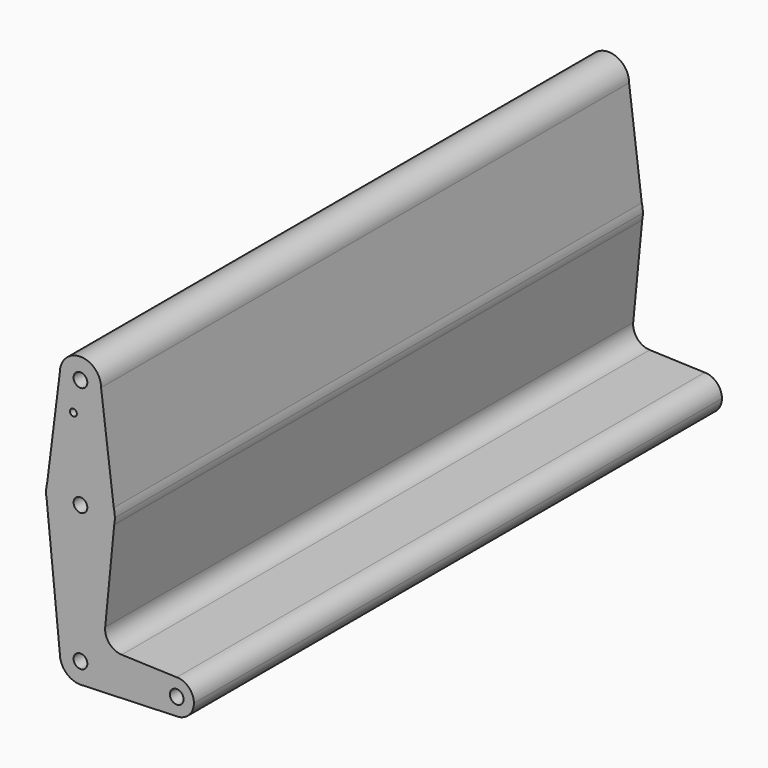
from build123d import *

# Parameters (mm, degrees)
F0_R     = 3.175
F0_R_2   = 1.5875
F1_DEPTH = 304.8
F2_DEPTH = 304.8


with BuildPart() as f1:
    # F0 (on Front) → F1 (new body)
    with BuildSketch(Plane.XZ):
        with BuildLine():
            ThreePointArc((-9.525, 114.3), (0, 104.775), (9.525, 114.3))
            ThreePointArc((9.525, 114.3), (0, 123.825), (-9.525, 114.3))
        make_face()
        with Locations((0, 114.3)):
            Circle(F0_R, mode=Mode.SUBTRACT)
        with BuildLine():
            Line((15.3865384615, 67.4076923077), (9.525, 114.3))
            ThreePointArc((9.525, 114.3), (0, 104.775), (-9.525, 114.3))
            Line((-9.525, 114.3), (-15.3865384615, 67.4076923077))
            ThreePointArc((-15.3865384615, 67.4076923077), (0, 79.375), (15.3865384615, 67.4076923077))
        make_face()
        with Locations((-3.2641780563, 100.0252)):
            Circle(F0_R_2, mode=Mode.SUBTRACT)
        with BuildLine():
            Line((15.875, 63.5), (15.3865384615, 67.4076923077))
            ThreePointArc((15.3865384615, 67.4076923077), (0, 79.375), (-15.3865384615, 67.4076923077))
            Line((-15.3865384615, 67.4076923077), (-15.875, 63.5))
            Line((-15.875, 63.5), (-15.5606435644, 60.3564356436))
            ThreePointArc((-15.5606435644, 60.3564356436), (0.0485627416, 47.6250742786), (15.5795850131, 60.4516962387))
            Line((15.5795850131, 60.4516962387), (15.875, 63.5))
        make_face()
        with Locations((0, 63.5)):
            Circle(F0_R, mode=Mode.SUBTRACT)
        with BuildLine():
            ThreePointArc((15.875, 63.5), (15.7524112928, 65.4690514116), (15.3865384615, 67.4076923077))
            Line((15.3865384615, 67.4076923077), (15.875, 63.5))
        make_face()
        with BuildLine():
            Line((-15.875, 63.5), (-15.3865384615, 67.4076923077))
            ThreePointArc((-15.3865384615, 67.4076923077), (-15.7524112928, 65.4690514116), (-15.875, 63.5))
        make_face()
        with BuildLine():
            ThreePointArc((15.5795850131, 60.4516962387), (15.800973658, 61.9687075854), (15.875, 63.5))
            Line((15.875, 63.5), (15.5795850131, 60.4516962387))
        make_face()
        with BuildLine():
            Line((-15.5606435644, 60.3564356436), (-15.875, 63.5))
            ThreePointArc((-15.875, 63.5), (-15.7962153946, 61.9203784605), (-15.5606435644, 60.3564356436))
        make_face()
        with BuildLine():
            Line((11.4225647963, 17.556579463), (15.5795850131, 60.4516962387))
            ThreePointArc((15.5795850131, 60.4516962387), (0.0485627416, 47.6250742786), (-15.5606435644, 60.3564356436))
            Line((-15.5606435644, 60.3564356436), (-9.525, 0))
            ThreePointArc((-9.525, 0), (0, 9.525), (9.525, 0))
            ThreePointArc((9.525, 0), (6.9712901065, -6.4905114784), (0.6794904459, -9.5007324841))
            Line((0.6794904459, -9.5007324841), (44.45, -7.9375))
            ThreePointArc((44.45, -7.9375), (36.5125, 0), (44.45, 7.9375))
            Line((44.45, 7.9375), (19.0519375984, 8.8445736572))
            ThreePointArc((19.0519375984, 8.8445736572), (13.3547241201, 11.5519894032), (11.4225647963, 17.556579463))
        make_face()
        with BuildLine():
            ThreePointArc((9.525, 0), (0, 9.525), (-9.525, 0))
            ThreePointArc((-9.525, 0), (-6.7351920908, -6.7351920908), (0, -9.525))
            Line((0, -9.525), (0.6794904459, -9.5007324841))
            ThreePointArc((0.6794904459, -9.5007324841), (6.9712901065, -6.4905114784), (9.525, 0))
        make_face()
        Circle(F0_R, mode=Mode.SUBTRACT)
        with BuildLine():
            Line((0.6794904459, -9.5007324841), (0, -9.525))
            ThreePointArc((0, -9.525), (0.3399618281, -9.5189311877), (0.6794904459, -9.5007324841))
        make_face()
        with BuildLine():
            ThreePointArc((52.3875, 0), (50.0626600757, 5.6126600757), (44.45, 7.9375))
            ThreePointArc((44.45, 7.9375), (36.5125, 0), (44.45, -7.9375))
            ThreePointArc((44.45, -7.9375), (50.0626600757, -5.6126600757), (52.3875, 0))
        make_face()
        with Locations((44.45, 0)):
            Circle(F0_R, mode=Mode.SUBTRACT)
    extrude(amount=F1_DEPTH)


with BuildPart() as f2:
    # F0 (on Front) → F2 (new body)
    with BuildSketch(Plane.XZ):
        with BuildLine():
            ThreePointArc((-9.525, 114.3), (0, 104.775), (9.525, 114.3))
            ThreePointArc((9.525, 114.3), (0, 123.825), (-9.525, 114.3))
        make_face()
        with Locations((0, 114.3)):
            Circle(F0_R, mode=Mode.SUBTRACT)
        with BuildLine():
            Line((15.3865384615, 67.4076923077), (9.525, 114.3))
            ThreePointArc((9.525, 114.3), (0, 104.775), (-9.525, 114.3))
            Line((-9.525, 114.3), (-15.3865384615, 67.4076923077))
            ThreePointArc((-15.3865384615, 67.4076923077), (0, 79.375), (15.3865384615, 67.4076923077))
        make_face()
        with Locations((-3.2641780563, 100.0252)):
            Circle(F0_R_2, mode=Mode.SUBTRACT)
        with BuildLine():
            Line((15.875, 63.5), (15.3865384615, 67.4076923077))
            ThreePointArc((15.3865384615, 67.4076923077), (0, 79.375), (-15.3865384615, 67.4076923077))
            Line((-15.3865384615, 67.4076923077), (-15.875, 63.5))
            Line((-15.875, 63.5), (-15.5606435644, 60.3564356436))
            ThreePointArc((-15.5606435644, 60.3564356436), (0.0485627416, 47.6250742786), (15.5795850131, 60.4516962387))
            Line((15.5795850131, 60.4516962387), (15.875, 63.5))
        make_face()
        with Locations((0, 63.5)):
            Circle(F0_R, mode=Mode.SUBTRACT)
        with BuildLine():
            ThreePointArc((15.875, 63.5), (15.7524112928, 65.4690514116), (15.3865384615, 67.4076923077))
            Line((15.3865384615, 67.4076923077), (15.875, 63.5))
        make_face()
        with BuildLine():
            Line((-15.875, 63.5), (-15.3865384615, 67.4076923077))
            ThreePointArc((-15.3865384615, 67.4076923077), (-15.7524112928, 65.4690514116), (-15.875, 63.5))
        make_face()
        with BuildLine():
            ThreePointArc((15.5795850131, 60.4516962387), (15.800973658, 61.9687075854), (15.875, 63.5))
            Line((15.875, 63.5), (15.5795850131, 60.4516962387))
        make_face()
        with BuildLine():
            Line((-15.5606435644, 60.3564356436), (-15.875, 63.5))
            ThreePointArc((-15.875, 63.5), (-15.7962153946, 61.9203784605), (-15.5606435644, 60.3564356436))
        make_face()
        with BuildLine():
            Line((11.4225647963, 17.556579463), (15.5795850131, 60.4516962387))
            ThreePointArc((15.5795850131, 60.4516962387), (0.0485627416, 47.6250742786), (-15.5606435644, 60.3564356436))
            Line((-15.5606435644, 60.3564356436), (-9.525, 0))
            ThreePointArc((-9.525, 0), (0, 9.525), (9.525, 0))
            ThreePointArc((9.525, 0), (6.9712901065, -6.4905114784), (0.6794904459, -9.5007324841))
            Line((0.6794904459, -9.5007324841), (44.45, -7.9375))
            ThreePointArc((44.45, -7.9375), (36.5125, 0), (44.45, 7.9375))
            Line((44.45, 7.9375), (19.0519375984, 8.8445736572))
            ThreePointArc((19.0519375984, 8.8445736572), (13.3547241201, 11.5519894032), (11.4225647963, 17.556579463))
        make_face()
        with BuildLine():
            ThreePointArc((9.525, 0), (0, 9.525), (-9.525, 0))
            ThreePointArc((-9.525, 0), (-6.7351920908, -6.7351920908), (0, -9.525))
            Line((0, -9.525), (0.6794904459, -9.5007324841))
            ThreePointArc((0.6794904459, -9.5007324841), (6.9712901065, -6.4905114784), (9.525, 0))
        make_face()
        Circle(F0_R, mode=Mode.SUBTRACT)
        with BuildLine():
            Line((0.6794904459, -9.5007324841), (0, -9.525))
            ThreePointArc((0, -9.525), (0.3399618281, -9.5189311877), (0.6794904459, -9.5007324841))
        make_face()
        with BuildLine():
            ThreePointArc((52.3875, 0), (50.0626600757, 5.6126600757), (44.45, 7.9375))
            ThreePointArc((44.45, 7.9375), (36.5125, 0), (44.45, -7.9375))
            ThreePointArc((44.45, -7.9375), (50.0626600757, -5.6126600757), (52.3875, 0))
        make_face()
        with Locations((44.45, 0)):
            Circle(F0_R, mode=Mode.SUBTRACT)
    extrude(amount=F2_DEPTH)


solid = Compound([f1.part, f2.part])
